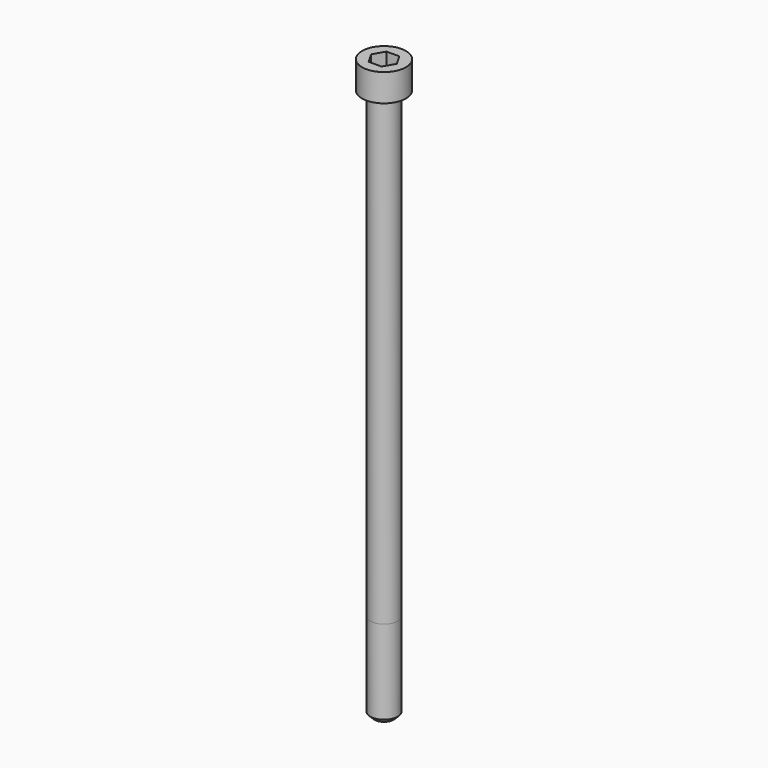
from build123d import *

# Parameters (mm, degrees)
POCKET_DEPTH = 8.07


with BuildPart() as part:
    # Sketch → Revolve (revolve)
    with BuildSketch(Plane.YZ):
        with BuildLine():
            Line((4.999, 0), (8, 0))
            Line((8, 0), (8, 9.97229))
            ThreePointArc((8, 9.97229), (7.991884, 9.991884), (7.97229, 10))
            Line((7.97229, 10), (0, 10))
            Line((0, -200), (0, 10))
            Line((3.5, -200), (0, -200))
            Line((5, -198.5), (3.5, -200))
            Line((5, -168), (5, -198.5))
            Line((4.999, 0), (5, -168))
        make_face()
    revolve(axis=Axis((0, 0, 0), (0, 0, 1)))

    # Sketch001 → Pocket (cut)
    with BuildSketch(Plane.XY.offset(10)):
        Polygon((4.659217, 0), (2.329608, 4.035), (-2.329608, 4.035), (-4.659217, 0), (-2.329608, -4.035), (2.329608, -4.035), align=None)
    extrude(amount=-POCKET_DEPTH, mode=Mode.SUBTRACT)


solid = part.part
